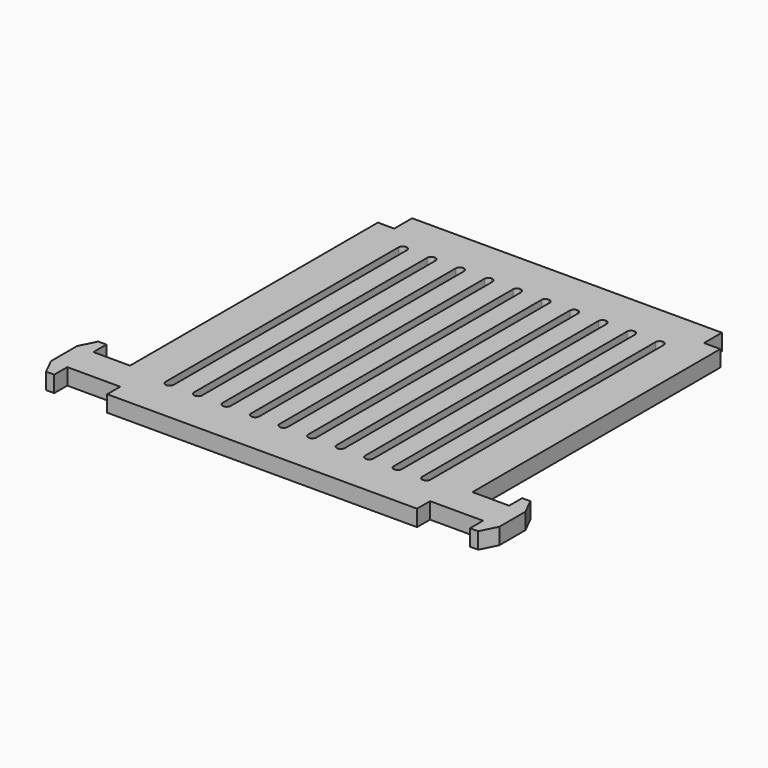
from build123d import *

# Parameters (mm, degrees)
F0_W     = 84
F0_H     = 93.5
F1_DEPTH = 4
F2_W     = 4
F2_H     = 4
F2_H_2   = 5.5
F3_DEPTH = 4
F5_DEPTH = 4
F6_W     = 13
F6_H     = 8
F7_DEPTH = 4
F9_DEPTH = 4


with BuildPart() as f1:
    # F0 (on Top) → F1 (new body)
    with BuildSketch(Plane.XY):
        with Locations((42, 46.75)):
            Rectangle(F0_W, F0_H)
    extrude(amount=F1_DEPTH)

    # F2 (on face) → F3 (cut, through all)
    with BuildSketch(Plane.XY.offset(4)):
        with Locations((2, 2)):
            Rectangle(F2_W, F2_H)
        with Locations((82, 2)):
            Rectangle(F2_W, F2_H)
        with Locations((2, 90.75)):
            Rectangle(F2_W, F2_H_2)
        with Locations((82, 90.75)):
            Rectangle(F2_W, F2_H_2)
    extrude(amount=-F3_DEPTH, mode=Mode.SUBTRACT)

    # F4 (on face) → F5 (cut, through all)
    with BuildSketch(Plane.XY.offset(4)):
        with BuildLine():
            ThreePointArc((10.5, 83.5), (9.792893, 83.207107), (9.5, 82.5))
            Line((9.5, 82.5), (9.5, 11))
            ThreePointArc((9.5, 11), (9.792893, 10.292893), (10.5, 10))
            ThreePointArc((10.5, 10), (11.207107, 10.292893), (11.5, 11))
            Line((11.5, 11), (11.5, 82.5))
            ThreePointArc((11.5, 82.5), (11.207107, 83.207107), (10.5, 83.5))
        make_face()
        with BuildLine():
            ThreePointArc((17.5, 83.5), (16.792893, 83.207107), (16.5, 82.5))
            Line((16.5, 82.5), (16.5, 11))
            ThreePointArc((16.5, 11), (16.792893, 10.292893), (17.5, 10))
            ThreePointArc((17.5, 10), (18.207107, 10.292893), (18.5, 11))
            Line((18.5, 11), (18.5, 82.5))
            ThreePointArc((18.5, 82.5), (18.207107, 83.207107), (17.5, 83.5))
        make_face()
        with BuildLine():
            ThreePointArc((24.5, 83.5), (23.792893, 83.207107), (23.5, 82.5))
            Line((23.5, 82.5), (23.5, 11))
            ThreePointArc((23.5, 11), (23.792893, 10.292893), (24.5, 10))
            ThreePointArc((24.5, 10), (25.207107, 10.292893), (25.5, 11))
            Line((25.5, 11), (25.5, 82.5))
            ThreePointArc((25.5, 82.5), (25.207107, 83.207107), (24.5, 83.5))
        make_face()
        with BuildLine():
            ThreePointArc((31.5, 83.5), (30.792893, 83.207107), (30.5, 82.5))
            Line((30.5, 82.5), (30.5, 11))
            ThreePointArc((30.5, 11), (30.792893, 10.292893), (31.5, 10))
            ThreePointArc((31.5, 10), (32.207107, 10.292893), (32.5, 11))
            Line((32.5, 11), (32.5, 82.5))
            ThreePointArc((32.5, 82.5), (32.207107, 83.207107), (31.5, 83.5))
        make_face()
        with BuildLine():
            ThreePointArc((38.5, 83.5), (37.792893, 83.207107), (37.5, 82.5))
            Line((37.5, 82.5), (37.5, 11))
            ThreePointArc((37.5, 11), (37.792893, 10.292893), (38.5, 10))
            ThreePointArc((38.5, 10), (39.207107, 10.292893), (39.5, 11))
            Line((39.5, 11), (39.5, 82.5))
            ThreePointArc((39.5, 82.5), (39.207107, 83.207107), (38.5, 83.5))
        make_face()
        with BuildLine():
            ThreePointArc((45.5, 83.5), (44.792893, 83.207107), (44.5, 82.5))
            Line((44.5, 82.5), (44.5, 11))
            ThreePointArc((44.5, 11), (44.792893, 10.292893), (45.5, 10))
            ThreePointArc((45.5, 10), (46.207107, 10.292893), (46.5, 11))
            Line((46.5, 11), (46.5, 82.5))
            ThreePointArc((46.5, 82.5), (46.207107, 83.207107), (45.5, 83.5))
        make_face()
        with BuildLine():
            ThreePointArc((52.5, 83.5), (51.792893, 83.207107), (51.5, 82.5))
            Line((51.5, 82.5), (51.5, 11))
            ThreePointArc((51.5, 11), (51.792893, 10.292893), (52.5, 10))
            ThreePointArc((52.5, 10), (53.207107, 10.292893), (53.5, 11))
            Line((53.5, 11), (53.5, 82.5))
            ThreePointArc((53.5, 82.5), (53.207107, 83.207107), (52.5, 83.5))
        make_face()
        with BuildLine():
            ThreePointArc((59.5, 83.5), (58.792893, 83.207107), (58.5, 82.5))
            Line((58.5, 82.5), (58.5, 11))
            ThreePointArc((58.5, 11), (58.792893, 10.292893), (59.5, 10))
            ThreePointArc((59.5, 10), (60.207107, 10.292893), (60.5, 11))
            Line((60.5, 11), (60.5, 82.5))
            ThreePointArc((60.5, 82.5), (60.207107, 83.207107), (59.5, 83.5))
        make_face()
        with BuildLine():
            ThreePointArc((66.5, 83.5), (65.792893, 83.207107), (65.5, 82.5))
            Line((65.5, 82.5), (65.5, 11))
            ThreePointArc((65.5, 11), (65.792893, 10.292893), (66.5, 10))
            ThreePointArc((66.5, 10), (67.207107, 10.292893), (67.5, 11))
            Line((67.5, 11), (67.5, 82.5))
            ThreePointArc((67.5, 82.5), (67.207107, 83.207107), (66.5, 83.5))
        make_face()
        with BuildLine():
            ThreePointArc((73.5, 83.5), (72.792893, 83.207107), (72.5, 82.5))
            Line((72.5, 82.5), (72.5, 11))
            ThreePointArc((72.5, 11), (72.792893, 10.292893), (73.5, 10))
            ThreePointArc((73.5, 10), (74.207107, 10.292893), (74.5, 11))
            Line((74.5, 11), (74.5, 82.5))
            ThreePointArc((74.5, 82.5), (74.207107, 83.207107), (73.5, 83.5))
        make_face()
    extrude(amount=-F5_DEPTH, mode=Mode.SUBTRACT)

    # F6 (on face) → F7 (join)
    with BuildSketch(Plane.XY.offset(4)):
        with Locations((90.5, 8)):
            Rectangle(F6_W, F6_H)
        with Locations((-6.5, 8)):
            Rectangle(F6_W, F6_H)
    extrude(amount=-F7_DEPTH)

    # F8 (on face) → F9 (join)
    with BuildSketch(Plane.XY.offset(4)):
        Polygon((93, 16), (93, 12), (97, 12), (95, 16), align=None)
        Polygon((93, 4), (93, 0), (95, 0), (97, 4), align=None)
        Polygon((-11, 16), (-13, 12), (-9, 12), (-9, 16), align=None)
        Polygon((-11, 0), (-9, 0), (-9, 4), (-13, 4), align=None)
    extrude(amount=-F9_DEPTH)


solid = f1.part
